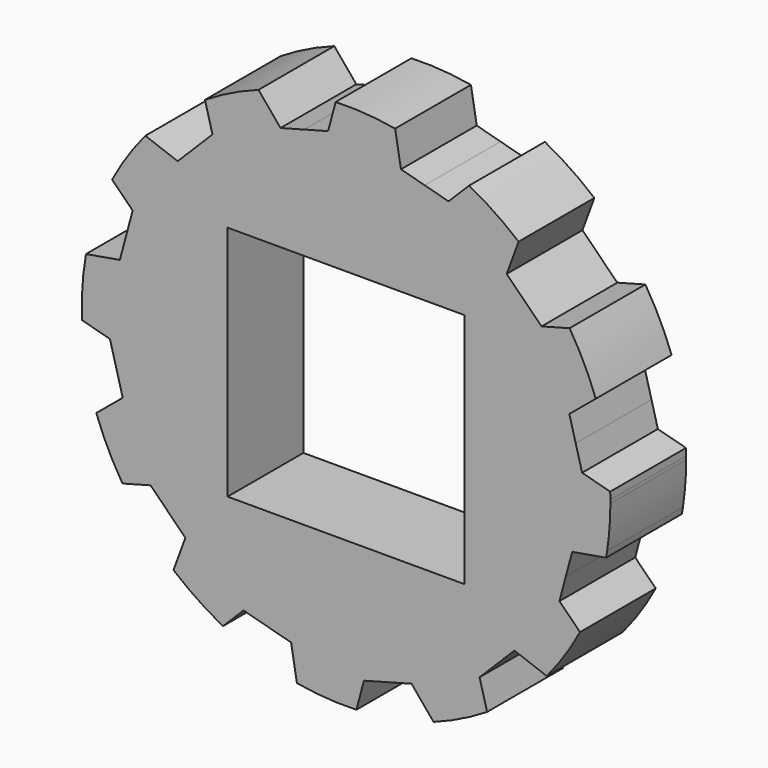
from build123d import *

# Parameters (mm, degrees)
F1_DEPTH = 1.27
F2_W     = 3.175
F2_H     = 3.175
F3_DEPTH = 25.4


with BuildPart() as f1:
    # F0 (on Front) → F1 (new body)
    with BuildSketch(Plane.XZ):
        with BuildLine():
            Line((2.9464038958, -0.7894865445), (0, 0))
            Line((0, 0), (3.0794409887, 0.8251337261))
            Line((3.0794409887, 0.8251337261), (2.99397894, 1.1440824339))
            Line((2.99397894, 1.1440824339), (3.3486255796, 1.4393611732))
            ThreePointArc((3.3486255796, 1.4393611732), (3.1918481536, 1.8075915845), (2.9973088366, 2.1573447134))
            Line((2.9973088366, 2.1573447134), (2.6208310146, 2.0564677851))
            Line((2.6208310146, 2.0564677851), (2.3873443555, 2.2899544442))
            Line((2.3873443555, 2.2899544442), (2.1538576963, 2.5234411034))
            Line((2.1538576963, 2.5234411034), (2.3133513259, 2.9564833127))
            ThreePointArc((2.3133513259, 2.9564833127), (1.9934628866, 3.1969914902), (1.6501103316, 3.4026169264))
            Line((1.6501103316, 3.4026169264), (1.374509438, 3.1270160328))
            Line((1.374509438, 3.1270160328), (1.0555607301, 3.2124780815))
            Line((1.0555607301, 3.2124780815), (0.7366120223, 3.2979401302))
            Line((0.7366120223, 3.2979401302), (0.6582164526, 3.7527124992))
            ThreePointArc((0.6582164526, 3.7527124992), (0.2609308491, 3.8010544711), (-0.1392339042, 3.807455045))
            Line((-0.1392339042, 3.807455045), (-0.2401108325, 3.430977223))
            Line((-0.2401108325, 3.430977223), (-0.5590595404, 3.3455151743))
            Line((-0.5590595404, 3.3455151743), (-0.8780082482, 3.2600531257))
            Line((-0.8780082482, 3.2600531257), (-1.1732869876, 3.6146997653))
            ThreePointArc((-1.1732869876, 3.6146997653), (-1.5415173988, 3.4579223392), (-1.8912705277, 3.2633830223))
            Line((-1.8912705277, 3.2633830223), (-1.7903935994, 2.8869052003))
            Line((-1.7903935994, 2.8869052003), (-2.0238802585, 2.6534185411))
            Line((-2.0238802585, 2.6534185411), (-2.2573669177, 2.419931882))
            Line((-2.2573669177, 2.419931882), (-2.690409127, 2.5794255116))
            ThreePointArc((-2.690409127, 2.5794255116), (-2.9309173045, 2.2595370723), (-3.1365427408, 1.9161845173))
            Line((-3.1365427408, 1.9161845173), (-2.8609418471, 1.6405836237))
            Line((-2.8609418471, 1.6405836237), (-2.9464038958, 1.3216349158))
            Line((-2.9464038958, 1.3216349158), (-3.0318659445, 1.002686208))
            Line((-3.0318659445, 1.002686208), (-3.4866383135, 0.9242906383))
            ThreePointArc((-3.4866383135, 0.9242906383), (-3.5349802854, 0.5270050347), (-3.5413808594, 0.1268402815))
            Line((-3.5413808594, 0.1268402815), (-3.1649030374, 0.0259633531))
            Line((-3.1649030374, 0.0259633531), (-3.0794409887, -0.2929853547))
            Line((-3.0794409887, -0.2929853547), (-2.99397894, -0.6119340625))
            Line((-2.99397894, -0.6119340625), (-3.3486255796, -0.9072128019))
            ThreePointArc((-3.3486255796, -0.9072128019), (-3.1918481536, -1.2754432131), (-2.9973088366, -1.6251963421))
            Line((-2.9973088366, -1.6251963421), (-2.6208310146, -1.5243194137))
            Line((-2.6208310146, -1.5243194137), (-2.3873443555, -1.7578060728))
            Line((-2.3873443555, -1.7578060728), (-2.1538576963, -1.991292732))
            Line((-2.1538576963, -1.991292732), (-2.3133513259, -2.4243349413))
            ThreePointArc((-2.3133513259, -2.4243349413), (-1.9934628866, -2.6648431188), (-1.6501103316, -2.8704685551))
            Line((-1.6501103316, -2.8704685551), (-1.374509438, -2.5948676615))
            Line((-1.374509438, -2.5948676615), (-1.0555607301, -2.6803297101))
            Line((-1.0555607301, -2.6803297101), (-0.7366120223, -2.7657917588))
            Line((-0.7366120223, -2.7657917588), (-0.6582164526, -3.2205641278))
            ThreePointArc((-0.6582164526, -3.2205641278), (-0.2609308491, -3.2689060997), (0.1392339042, -3.2753066737))
            Line((0.1392339042, -3.2753066737), (0.2401108325, -2.8988288517))
            Line((0.2401108325, -2.8988288517), (0.5590595404, -2.813366803))
            Line((0.5590595404, -2.813366803), (0.8780082482, -2.7279047543))
            Line((0.8780082482, -2.7279047543), (1.1732869876, -3.0825513939))
            ThreePointArc((1.1732869876, -3.0825513939), (1.5415173988, -2.9257739679), (1.8912705277, -2.7312346509))
            Line((1.8912705277, -2.7312346509), (1.7903935994, -2.3547568289))
            Line((1.7903935994, -2.3547568289), (2.0238802585, -2.1212701698))
            Line((2.0238802585, -2.1212701698), (2.2573669177, -1.8877835106))
            Line((2.2573669177, -1.8877835106), (2.690409127, -2.0472771403))
            ThreePointArc((2.690409127, -2.0472771403), (2.9309173045, -1.7273887009), (3.1365427408, -1.3840361459))
            Line((3.1365427408, -1.3840361459), (2.8609418471, -1.1084352523))
            Line((2.8609418471, -1.1084352523), (2.9464038958, -0.7894865445))
        make_face()
        with BuildLine():
            ThreePointArc((3.4866383135, -0.392142267), (3.4939098929, -0.3492466485), (3.5006911676, -0.3062707917))
            Line((3.5006911676, -0.3062707917), (0, 0))
            Line((0, 0), (2.9464038958, -0.7894865445))
            Line((2.9464038958, -0.7894865445), (3.0318659445, -0.4705378366))
            Line((3.0318659445, -0.4705378366), (3.4866383135, -0.392142267))
        make_face()
        with BuildLine():
            ThreePointArc((3.5439258143, 0.2660741857), (3.5438624188, 0.2880530324), (3.5436722344, 0.3100311478))
            Line((3.5436722344, 0.3100311478), (0, 0))
            Line((0, 0), (3.5006911676, -0.3062707917))
            ThreePointArc((3.5006911676, -0.3062707917), (3.5331017773, -0.0209136223), (3.5439258143, 0.2660741857))
        make_face()
        with BuildLine():
            Line((0, 0), (3.5436722344, 0.3100311478))
            ThreePointArc((3.5436722344, 0.3100311478), (3.5428244693, 0.3576767837), (3.5413808594, 0.4053080898))
            Line((3.5413808594, 0.4053080898), (3.1649030374, 0.5061850182))
            Line((3.1649030374, 0.5061850182), (3.0794409887, 0.8251337261))
            Line((3.0794409887, 0.8251337261), (0, 0))
        make_face()
    extrude(amount=F1_DEPTH)

    # F2 (on face) → F3 (cut)
    with BuildSketch(Plane.XZ.offset(1.27)):
        with Locations((0, 0.2660741857)):
            Rectangle(F2_W, F2_H)
    extrude(amount=-F3_DEPTH, mode=Mode.SUBTRACT)


solid = f1.part
